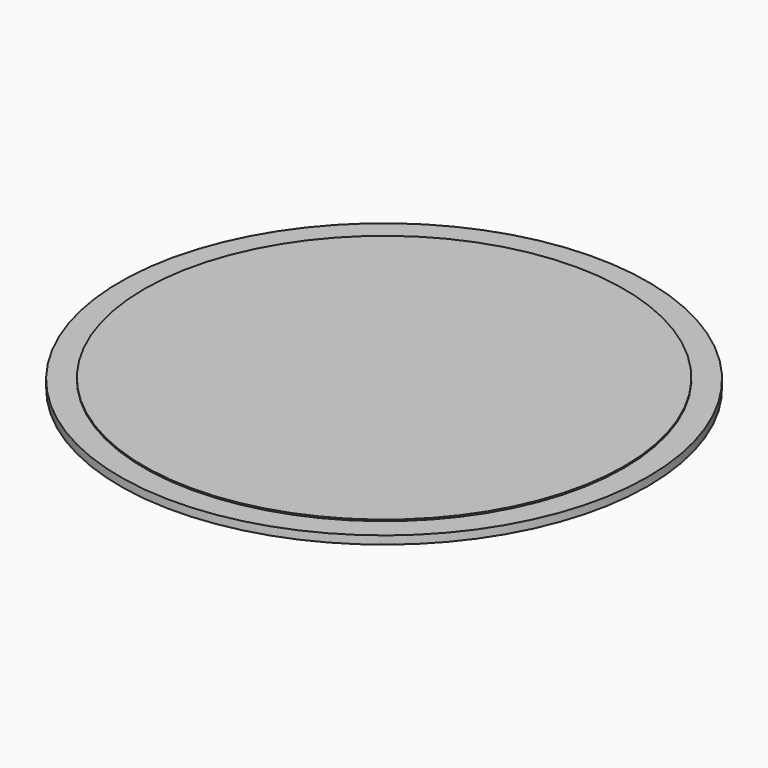
from build123d import *

# Parameters (mm, degrees)
F2_R     = 100
F3_DEPTH = 4
F2_R_2   = 110
F4_DEPTH = 3.4


with BuildPart() as f3:
    # F2 (on Top) → F3 (new body)
    with BuildSketch(Plane.XY):
        Circle(F2_R)
    extrude(amount=F3_DEPTH)


with BuildPart() as f4:
    # F2 (on Top) → F4 (new body)
    with BuildSketch(Plane.XY):
        Circle(F2_R_2)
        Circle(F2_R, mode=Mode.SUBTRACT)
    extrude(amount=F4_DEPTH)


solid = Compound([f3.part, f4.part])
